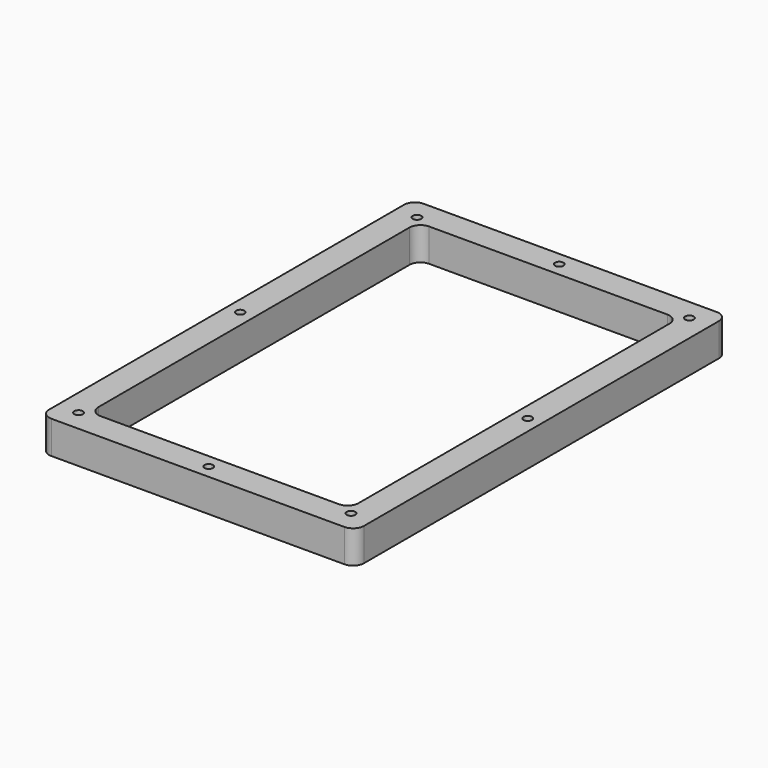
from build123d import *

# Parameters (mm, degrees)
F0_W     = 115
F0_H     = 170
F1_DEPTH = 12
F2_W     = 95
F2_H     = 150
F3_DEPTH = 12.001
F4_R     = 1.55
F5_DEPTH = 12.001
F6_R     = 4
F7_R     = 1.55
F8_DEPTH = 12.001


with BuildPart() as f1:
    # F0 (on Top) → F1 (new body)
    with BuildSketch(Plane.XY):
        Rectangle(F0_W, F0_H)
    extrude(amount=F1_DEPTH)

    # F2 (on face) → F3 (cut, through all)
    with BuildSketch(Plane.XY.offset(12)):
        Rectangle(F2_W, F2_H)
    extrude(amount=-F3_DEPTH, mode=Mode.SUBTRACT)

    # F4 (on face) → F5 (cut, through all)
    with BuildSketch(Plane.XY.offset(12)):
        with Locations((0, 80)):
            Circle(F4_R)
        with Locations((0, -80)):
            Circle(F4_R)
        with Locations((52.5, 0)):
            Circle(F4_R)
        with Locations((-52.5, 0)):
            Circle(F4_R)
    extrude(amount=-F5_DEPTH, mode=Mode.SUBTRACT)

    # F6
    f6_edges = [f1.edges().sort_by_distance(p)[0] for p in [
        (47.5, 75, 6),
        (-47.5, 75, 6),
        (57.5, 85, 6),
        (57.5, -85, 6),
        (-57.5, -85, 6),
        (-57.5, 85, 6),
        (47.5, -75, 6),
        (-47.5, -75, 6),
    ]]
    fillet(f6_edges, radius=F6_R)

    # F7 (on face) → F8 (cut, through all)
    with BuildSketch(Plane.XY.offset(12)):
        with Locations((-49.75, 77.25)):
            Circle(F7_R)
        with Locations((49.75, 77.25)):
            Circle(F7_R)
        with Locations((49.75, -77.25)):
            Circle(F7_R)
        with Locations((-49.75, -77.25)):
            Circle(F7_R)
    extrude(amount=-F8_DEPTH, mode=Mode.SUBTRACT)


solid = f1.part
